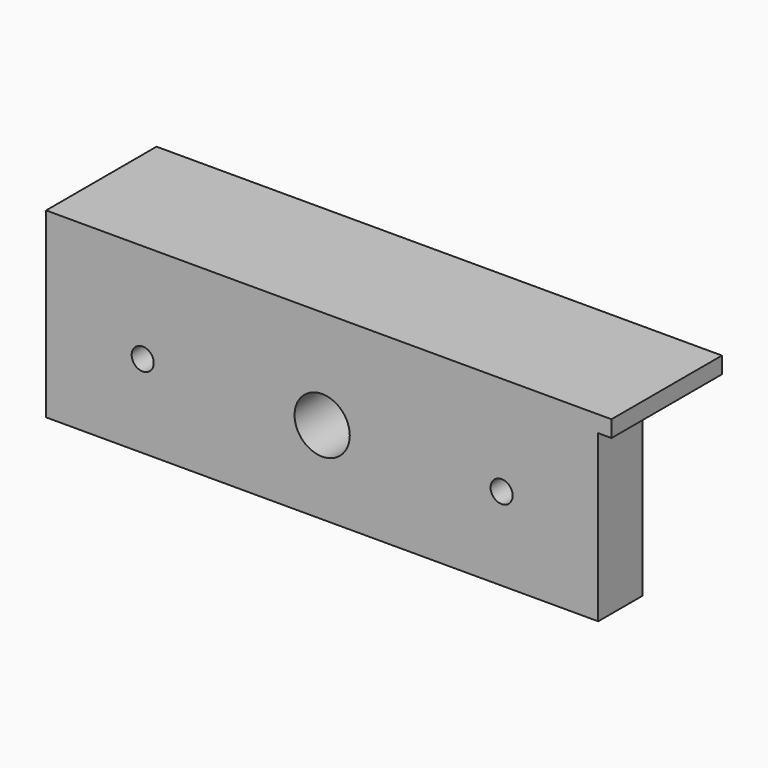
from build123d import *

# Parameters (mm, degrees)
F0_W     = 100
F0_H     = 30
F1_DEPTH = 10
F2_R     = 2
F2_R_2   = 5
F3_DEPTH = 25
F4_W     = 102.398372
F4_H     = 25
F5_DEPTH = 3
F6_R     = 14.995
F7_DEPTH = 10


with BuildPart() as f1:
    # F0 (on Front) → F1 (new body)
    with BuildSketch(Plane.XZ):
        Rectangle(F0_W, F0_H)
    extrude(amount=F1_DEPTH)

    # F2 (on face) → F3 (cut)
    with BuildSketch(Plane.XZ.offset(10)):
        with Locations((-32.5, 0)):
            Circle(F2_R)
        with Locations((32.5, 0)):
            Circle(F2_R)
        Circle(F2_R_2)
    extrude(amount=-F3_DEPTH, mode=Mode.SUBTRACT)

    # F4 (on face) → F5 (join)
    with BuildSketch(Plane.XY.offset(15)):
        with Locations((1.199186, 2.5)):
            Rectangle(F4_W, F4_H)
    extrude(amount=F5_DEPTH)

    # F6 (on face) → F7 (join)
    with BuildSketch(Plane(origin=(0, 0, 0), x_dir=(-1, 0, 0), z_dir=(0, 1, 0))):
        Circle(F6_R)
    extrude(amount=F7_DEPTH)


solid = f1.part
